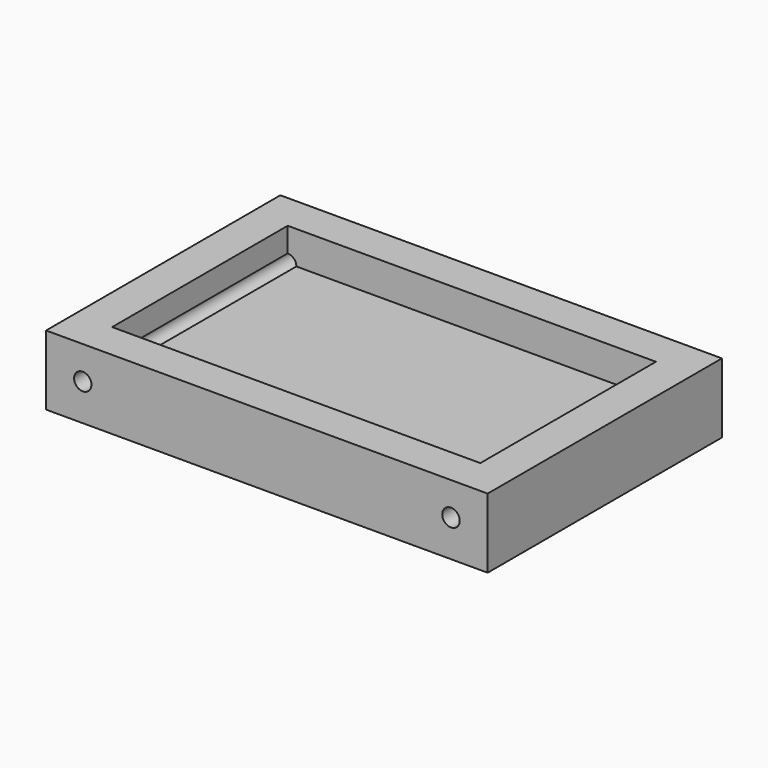
from build123d import *

# Parameters (mm, degrees)
F0_W     = 152.893602
F0_H     = 101.389184
F1_DEPTH = 24.13
F2_T     = -12.7
F3_R     = 3.028448
F3_R_2   = 3.005177
F4_DEPTH = 101.389185


with BuildPart() as f1:
    # F0 (on Top) → F1 (new body)
    with BuildSketch(Plane.XY):
        Rectangle(F0_W, F0_H)
    extrude(amount=F1_DEPTH)

    # F2
    f2_openings = [f1.faces().sort_by_distance(p)[0] for p in [
        (0, 0, 24.13),
    ]]
    offset(amount=F2_T, openings=f2_openings)

    # F3 (on face) → F4 (cut, through all)
    with BuildSketch(Plane(origin=(0, 50.694592, 0), x_dir=(-1, 0, 0), z_dir=(0, 1, 0))):
        with Locations((-63.746801, 12.7)):
            Circle(F3_R)
        with Locations((63.746801, 12.7)):
            Circle(F3_R_2)
    extrude(amount=-F4_DEPTH, mode=Mode.SUBTRACT)


solid = f1.part
